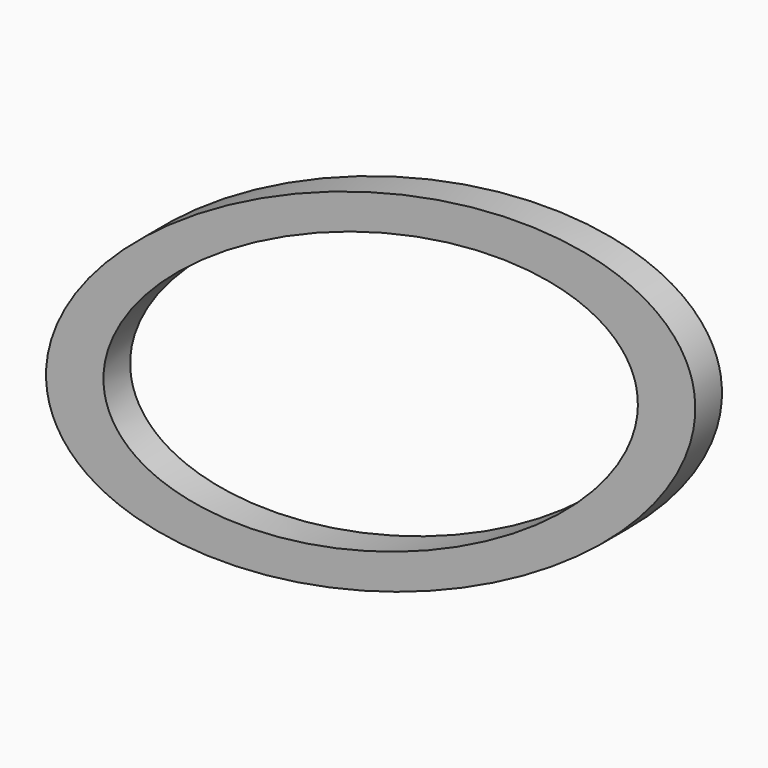
from build123d import *

# Parameters (mm, degrees)
F1_DEPTH = 10


with BuildPart() as f1:
    # F0 (on Front) → F1 (new body)
    with BuildSketch(Plane.XZ):
        with BuildLine():
            add(Edge.make_bspline(
                [(95.575416, 36.365186), (64.778226, 117.306728), (-63.186303, 22.288177), (-191.150832, -72.730373), (-32.389113, -58.653364), (126.372606, -44.576355), (95.575416, 36.365186)],
                knots=[0, 0, 0, 2.094395, 2.094395, 4.18879, 4.18879, 6.283185, 6.283185, 6.283185], degree=2, weights=[1, 0.5, 1, 0.5, 1, 0.5, 1]))
        make_face()
        with BuildLine():
            add(Edge.make_bspline(
                [(78.764296, 29.693839), (54.324333, 94.521982), (-51.602129, 17.567153), (-157.528591, -59.387677), (-27.162167, -47.260991), (103.204258, -35.134305), (78.764296, 29.693839)],
                knots=[0, 0, 0, 2.094395, 2.094395, 4.18879, 4.18879, 6.283185, 6.283185, 6.283185], degree=2, weights=[1, 0.5, 1, 0.5, 1, 0.5, 1]))
        make_face(mode=Mode.SUBTRACT)
    extrude(amount=F1_DEPTH)


solid = f1.part
